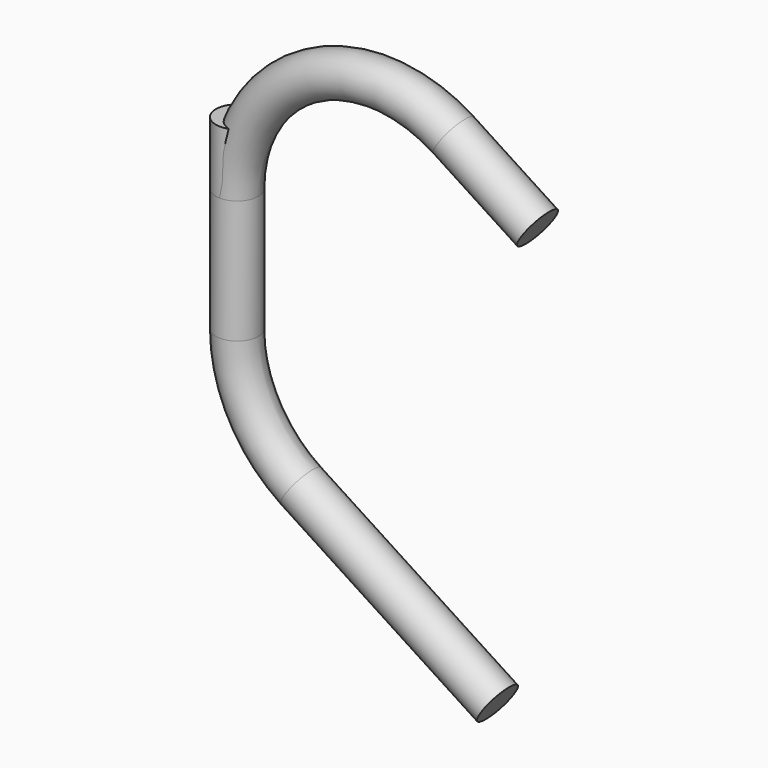
from build123d import *

# Parameters (mm, degrees)
F1_R      = 21.2
F2_DEPTH  = 63
F2_FACE_R = 21.2


with BuildPart() as f2:
    # F1 (on Top) → F2 (new body)
    with BuildSketch(Plane.XY):
        with Locations((-300, 0)):
            Circle(F1_R)
    extrude(amount=-F2_DEPTH)


with BuildPart() as f3:
    # F3: sweep along a path in F0
    with BuildLine(Plane.XZ) as f3_path:
        Line((0, 0), (-83.7505350979, 54.3882334269))
        ThreePointArc((-83.7505350979, 54.3882334269), (-226.8022264363, 60.0087496872), (-300, -63.0256460854))
        Line((-300, -63.0256460854), (-300, -186.1639240914))
        ThreePointArc((-300, -186.1639240914), (-283.0343957727, -252.9661505277), (-236.2494649021, -303.5778036037))
        Line((-236.2494649021, -303.5778036037), (-40, -431.0236962721))
    # F2_face (on face) → F3 (sweep)
    with BuildSketch(Plane(origin=(-300, 0, -63), x_dir=(1, 0, 0), z_dir=(0, 0, -1))):
        Circle(F2_FACE_R)
    sweep(path=f3_path.line)


solid = Compound([f2.part, f3.part])
